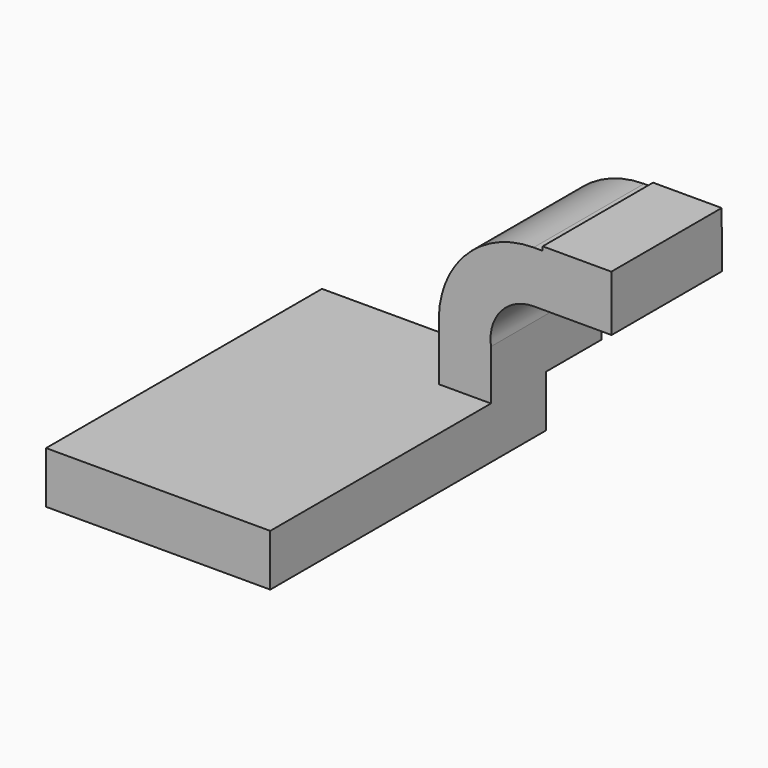
from build123d import *

# Parameters (mm, degrees)
F1_DEPTH = 127
F2_DEPTH = 25.4


with BuildPart() as f1:
    # F0 (on Front) → F1 (new body)
    with BuildSketch(Plane.XZ):
        Polygon((41.275, -9.525), (41.275, 9.525), (22.225, 9.525), (-41.275, 9.525), (-41.275, -9.525), align=None)
    extrude(amount=F1_DEPTH)

    # F0 (on Front) → F2 (join, symmetric)
    with BuildSketch(Plane.XZ):
        with BuildLine():
            Line((22.225, 9.525), (41.275, 9.525))
            Line((41.275, 9.525), (41.275, 27.979645))
            ThreePointArc((41.275, 27.979645), (44.97222, 40.659064), (56.982722, 46.153145))
            Line((56.982722, 46.153145), (60.325, 46.153145))
            Line((60.325, 46.153145), (60.325, 65.203145))
            Line((60.325, 65.203145), (56.982722, 65.203145))
            ThreePointArc((56.982722, 65.203145), (31.108074, 53.735729), (22.225, 26.863997))
            Line((22.225, 26.863997), (22.225, 9.525))
        make_face()
        Polygon((60.325, 65.203145), (60.325, 46.153145), (85.689964, 46.153145), (85.600682, 66.675), (60.325, 66.675), align=None)
    extrude(amount=F2_DEPTH, both=True)


solid = f1.part
